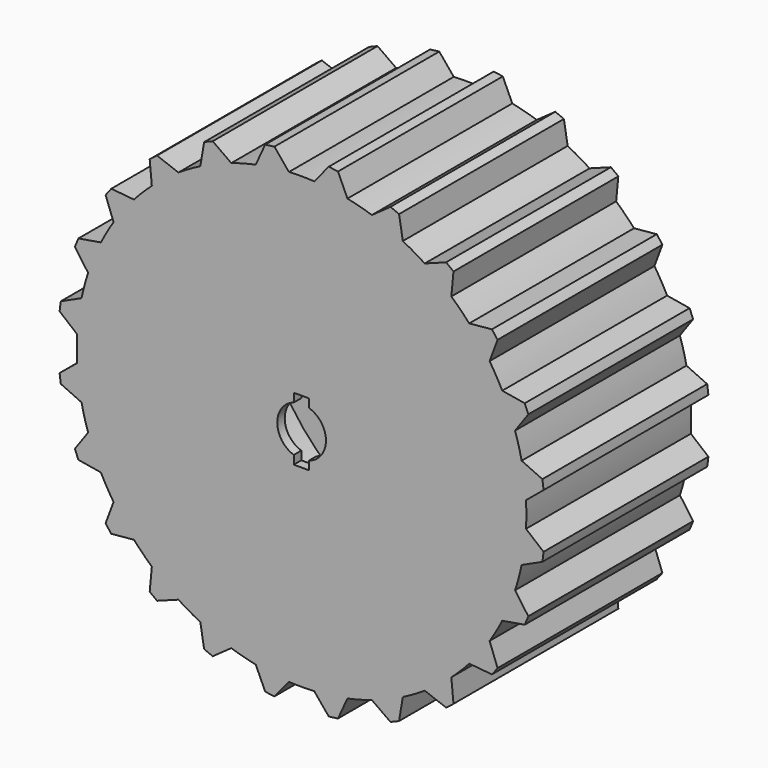
from build123d import *

# Parameters (mm, degrees)
F0_R     = 33.02
F0_R_2   = 30.48
F1_DEPTH = 27.94
F3_DEPTH = 27.94
F4_DEPTH = 27.94
F6_R     = 27.305
F7_DEPTH = 25.4


with BuildPart() as f1:
    # F0 (on Front) → F1 (new body)
    with BuildSketch(Plane.XZ):
        Circle(F0_R)
        Circle(F0_R_2, mode=Mode.SUBTRACT)
    extrude(amount=F1_DEPTH)

    # F2 (on Front) → F3 (cut)
    with BuildSketch(Plane.XZ):
        with BuildLine():
            Line((-3.683, 32.8139590876), (-1.7145, 30.431741484))
            ThreePointArc((-1.7145, 30.431741484), (0, 30.48), (1.7145, 30.431741484))
            Line((1.7145, 30.431741484), (3.683, 32.8139590876))
            ThreePointArc((3.683, 32.8139590876), (0, 33.02), (-3.683, 32.8139590876))
        make_face()
        with BuildLine():
            ThreePointArc((-9.5323941009, 28.9510597855), (-7.8888044947, 29.4414191853), (-6.2202344425, 29.8385502912))
            Line((-6.2202344425, 29.8385502912), (-4.9353727389, 32.6490810886))
            ThreePointArc((-4.9353727389, 32.6490810886), (-8.5462048693, 31.8948707841), (-12.0503823753, 30.7426200024))
            Line((-12.0503823753, 30.7426200024), (-9.5323941009, 28.9510597855))
        make_face()
        with BuildLine():
            ThreePointArc((-16.7006712968, 25.4974112066), (-15.24, 26.3964543073), (-13.7310701872, 27.2119112066))
            Line((-13.7310701872, 27.2119112066), (-13.2174079816, 30.2592221686))
            ThreePointArc((-13.2174079816, 30.2592221686), (-16.51, 28.596158833), (-19.5965511059, 26.5762221686))
            Line((-19.5965511059, 26.5762221686), (-16.7006712968, 25.4974112066))
        make_face()
        with BuildLine():
            ThreePointArc((-22.730825343, 20.3061561903), (-21.5526146906, 21.5526146906), (-20.3061561903, 22.730825343))
            Line((-20.3061561903, 22.730825343), (-20.5986987133, 25.8072472635))
            ThreePointArc((-20.5986987133, 25.8072472635), (-23.3486659148, 23.3486659148), (-25.8072472635, 20.5986987133))
            Line((-25.8072472635, 20.5986987133), (-22.730825343, 20.3061561903))
        make_face()
        with BuildLine():
            ThreePointArc((-27.2119112066, 13.7310701872), (-26.3964543073, 15.24), (-25.4974112066, 16.7006712968))
            Line((-25.4974112066, 16.7006712968), (-26.5762221686, 19.5965511059))
            ThreePointArc((-26.5762221686, 19.5965511059), (-28.596158833, 16.51), (-30.2592221686, 13.2174079816))
            Line((-30.2592221686, 13.2174079816), (-27.2119112066, 13.7310701872))
        make_face()
        with BuildLine():
            ThreePointArc((-29.8385502912, 6.2202344425), (-29.4414191853, 7.8888044947), (-28.9510597855, 9.5323941009))
            Line((-28.9510597855, 9.5323941009), (-30.7426200024, 12.0503823753))
            ThreePointArc((-30.7426200024, 12.0503823753), (-31.8948707841, 8.5462048693), (-32.6490810886, 4.9353727389))
            Line((-32.6490810886, 4.9353727389), (-29.8385502912, 6.2202344425))
        make_face()
        with BuildLine():
            ThreePointArc((-30.431741484, -1.7145), (-30.48, 0), (-30.431741484, 1.7145))
            Line((-30.431741484, 1.7145), (-32.8139590876, 3.683))
            ThreePointArc((-32.8139590876, 3.683), (-33.02, 0), (-32.8139590876, -3.683))
            Line((-32.8139590876, -3.683), (-30.431741484, -1.7145))
        make_face()
        with BuildLine():
            ThreePointArc((-28.9510597855, -9.5323941009), (-29.4414191853, -7.8888044947), (-29.8385502912, -6.2202344425))
            Line((-29.8385502912, -6.2202344425), (-32.6490810886, -4.9353727389))
            ThreePointArc((-32.6490810886, -4.9353727389), (-31.8948707841, -8.5462048693), (-30.7426200024, -12.0503823753))
            Line((-30.7426200024, -12.0503823753), (-28.9510597855, -9.5323941009))
        make_face()
        with BuildLine():
            ThreePointArc((-25.4974112066, -16.7006712968), (-26.3964543073, -15.24), (-27.2119112066, -13.7310701872))
            Line((-27.2119112066, -13.7310701872), (-30.2592221686, -13.2174079816))
            ThreePointArc((-30.2592221686, -13.2174079816), (-28.596158833, -16.51), (-26.5762221686, -19.5965511059))
            Line((-26.5762221686, -19.5965511059), (-25.4974112066, -16.7006712968))
        make_face()
        with BuildLine():
            ThreePointArc((-20.3061561903, -22.730825343), (-21.5526146906, -21.5526146906), (-22.730825343, -20.3061561903))
            Line((-22.730825343, -20.3061561903), (-25.8072472635, -20.5986987133))
            ThreePointArc((-25.8072472635, -20.5986987133), (-23.3486659148, -23.3486659148), (-20.5986987133, -25.8072472635))
            Line((-20.5986987133, -25.8072472635), (-20.3061561903, -22.730825343))
        make_face()
        with BuildLine():
            ThreePointArc((-13.7310701872, -27.2119112066), (-15.24, -26.3964543073), (-16.7006712968, -25.4974112066))
            Line((-16.7006712968, -25.4974112066), (-19.5965511059, -26.5762221686))
            ThreePointArc((-19.5965511059, -26.5762221686), (-16.51, -28.596158833), (-13.2174079816, -30.2592221686))
            Line((-13.2174079816, -30.2592221686), (-13.7310701872, -27.2119112066))
        make_face()
        with BuildLine():
            ThreePointArc((-6.2202344425, -29.8385502912), (-7.8888044947, -29.4414191853), (-9.5323941009, -28.9510597855))
            Line((-9.5323941009, -28.9510597855), (-12.0503823753, -30.7426200024))
            ThreePointArc((-12.0503823753, -30.7426200024), (-8.5462048693, -31.8948707841), (-4.9353727389, -32.6490810886))
            Line((-4.9353727389, -32.6490810886), (-6.2202344425, -29.8385502912))
        make_face()
        with BuildLine():
            ThreePointArc((1.7145, -30.431741484), (0, -30.48), (-1.7145, -30.431741484))
            Line((-1.7145, -30.431741484), (-3.683, -32.8139590876))
            ThreePointArc((-3.683, -32.8139590876), (0, -33.02), (3.683, -32.8139590876))
            Line((3.683, -32.8139590876), (1.7145, -30.431741484))
        make_face()
        with BuildLine():
            ThreePointArc((9.5323941009, -28.9510597855), (7.8888044947, -29.4414191853), (6.2202344425, -29.8385502912))
            Line((6.2202344425, -29.8385502912), (4.9353727389, -32.6490810886))
            ThreePointArc((4.9353727389, -32.6490810886), (8.5462048693, -31.8948707841), (12.0503823753, -30.7426200024))
            Line((12.0503823753, -30.7426200024), (9.5323941009, -28.9510597855))
        make_face()
        with BuildLine():
            ThreePointArc((16.7006712968, -25.4974112066), (15.24, -26.3964543073), (13.7310701872, -27.2119112066))
            Line((13.7310701872, -27.2119112066), (13.2174079816, -30.2592221686))
            ThreePointArc((13.2174079816, -30.2592221686), (16.51, -28.596158833), (19.5965511059, -26.5762221686))
            Line((19.5965511059, -26.5762221686), (16.7006712968, -25.4974112066))
        make_face()
        with BuildLine():
            ThreePointArc((22.730825343, -20.3061561903), (21.5526146906, -21.5526146906), (20.3061561903, -22.730825343))
            Line((20.3061561903, -22.730825343), (20.5986987133, -25.8072472635))
            ThreePointArc((20.5986987133, -25.8072472635), (23.3486659148, -23.3486659148), (25.8072472635, -20.5986987133))
            Line((25.8072472635, -20.5986987133), (22.730825343, -20.3061561903))
        make_face()
        with BuildLine():
            ThreePointArc((27.2119112066, -13.7310701872), (26.3964543074, -15.24), (25.4974112066, -16.7006712968))
            Line((25.4974112066, -16.7006712968), (26.5762221686, -19.5965511059))
            ThreePointArc((26.5762221686, -19.5965511059), (28.596158833, -16.51), (30.2592221686, -13.2174079816))
            Line((30.2592221686, -13.2174079816), (27.2119112066, -13.7310701872))
        make_face()
        with BuildLine():
            ThreePointArc((29.8385502912, -6.2202344425), (29.4414191853, -7.8888044947), (28.9510597855, -9.5323941009))
            Line((28.9510597855, -9.5323941009), (30.7426200024, -12.0503823753))
            ThreePointArc((30.7426200024, -12.0503823753), (31.8948707841, -8.5462048693), (32.6490810886, -4.9353727389))
            Line((32.6490810886, -4.9353727389), (29.8385502912, -6.2202344425))
        make_face()
        with BuildLine():
            ThreePointArc((30.431741484, 1.7145), (30.48, 0), (30.431741484, -1.7145))
            Line((30.431741484, -1.7145), (32.8139590876, -3.683))
            ThreePointArc((32.8139590876, -3.683), (33.02, 0), (32.8139590876, 3.683))
            Line((32.8139590876, 3.683), (30.431741484, 1.7145))
        make_face()
        with BuildLine():
            ThreePointArc((28.9510597855, 9.5323941009), (29.4414191853, 7.8888044947), (29.8385502912, 6.2202344425))
            Line((29.8385502912, 6.2202344425), (32.6490810886, 4.9353727389))
            ThreePointArc((32.6490810886, 4.9353727389), (31.8948707841, 8.5462048693), (30.7426200024, 12.0503823753))
            Line((30.7426200024, 12.0503823753), (28.9510597855, 9.5323941009))
        make_face()
        with BuildLine():
            ThreePointArc((25.4974112066, 16.7006712968), (26.3964543073, 15.24), (27.2119112066, 13.7310701872))
            Line((27.2119112066, 13.7310701872), (30.2592221686, 13.2174079816))
            ThreePointArc((30.2592221686, 13.2174079816), (28.596158833, 16.51), (26.5762221686, 19.5965511059))
            Line((26.5762221686, 19.5965511059), (25.4974112066, 16.7006712968))
        make_face()
        with BuildLine():
            ThreePointArc((20.3061561903, 22.730825343), (21.5526146906, 21.5526146906), (22.730825343, 20.3061561903))
            Line((22.730825343, 20.3061561903), (25.8072472635, 20.5986987133))
            ThreePointArc((25.8072472635, 20.5986987133), (23.3486659148, 23.3486659148), (20.5986987133, 25.8072472635))
            Line((20.5986987133, 25.8072472635), (20.3061561903, 22.730825343))
        make_face()
        with BuildLine():
            ThreePointArc((13.7310701872, 27.2119112066), (15.24, 26.3964543073), (16.7006712968, 25.4974112066))
            Line((16.7006712968, 25.4974112066), (19.5965511059, 26.5762221686))
            ThreePointArc((19.5965511059, 26.5762221686), (16.51, 28.596158833), (13.2174079816, 30.2592221686))
            Line((13.2174079816, 30.2592221686), (13.7310701872, 27.2119112066))
        make_face()
        with BuildLine():
            ThreePointArc((6.2202344425, 29.8385502912), (7.8888044947, 29.4414191853), (9.5323941009, 28.9510597855))
            Line((9.5323941009, 28.9510597855), (12.0503823753, 30.7426200024))
            ThreePointArc((12.0503823753, 30.7426200024), (8.5462048693, 31.8948707841), (4.9353727389, 32.6490810886))
            Line((4.9353727389, 32.6490810886), (6.2202344425, 29.8385502912))
        make_face()
    extrude(amount=F3_DEPTH, mode=Mode.SUBTRACT)

    # F0 (on Front) → F4 (join)
    with BuildSketch(Plane.XZ):
        Circle(F0_R_2)
        with BuildLine():
            ThreePointArc((0.97536, 3.154659549), (2.6574275832, 1.9599190391), (3.302, 0))
            ThreePointArc((3.302, 0), (2.6574275832, -1.9599190391), (0.97536, -3.154659549))
            Line((0.97536, -3.154659549), (0.97536, -4.2937106432))
            Line((0.97536, -4.2937106432), (-1.05664, -4.2937106432))
            Line((-1.05664, -4.2937106432), (-1.05664, -3.1283727256))
            ThreePointArc((-1.05664, -3.1283727256), (-3.302, 0), (-1.05664, 3.1283727256))
            Line((-1.05664, 3.1283727256), (-1.05664, 4.2937106432))
            Line((-1.05664, 4.2937106432), (0.97536, 4.2937106432))
            Line((0.97536, 4.2937106432), (0.97536, 3.154659549))
        make_face(mode=Mode.SUBTRACT)
    extrude(amount=F4_DEPTH)

    # F6 (on offset) → F7 (cut)
    with BuildSketch(Plane(origin=(0, -1.27, 0), x_dir=(-1, 0, 0), z_dir=(0, 1, 0))):
        Circle(F6_R)
    extrude(amount=-F7_DEPTH, mode=Mode.SUBTRACT)


solid = f1.part
